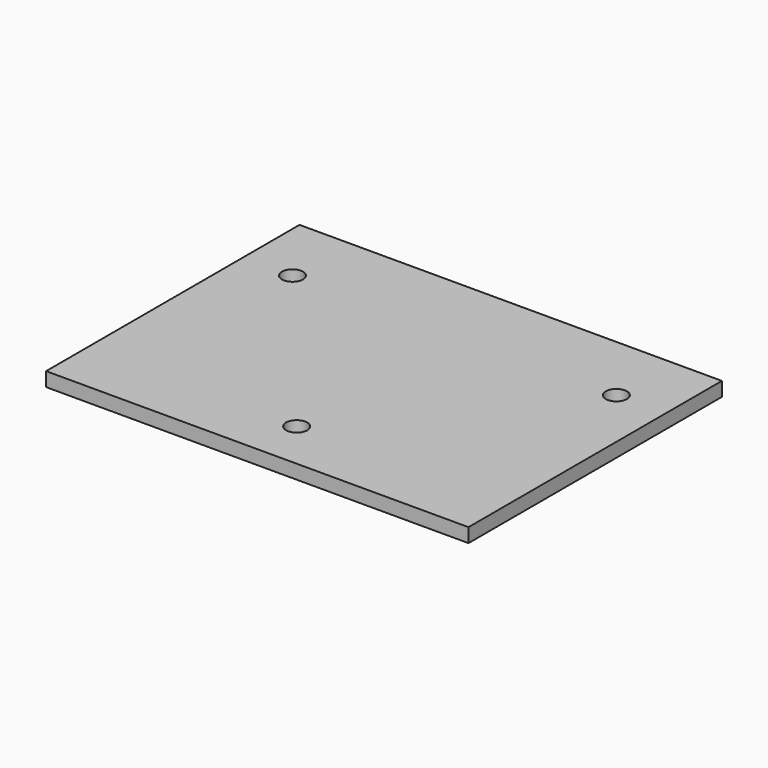
from build123d import *

# Parameters (mm, degrees)
F0_W     = 60
F0_H     = 45
F1_DEPTH = 2
F3_D     = 3


with BuildPart() as f1:
    # F0 (on Top) → F1 (new body)
    with BuildSketch(Plane.XY):
        Rectangle(F0_W, F0_H)
    extrude(amount=-F1_DEPTH)

    # F3 (through all)
    with Locations(Plane.XY):
        with Locations((-23, 12.5), (23, 12.5), (0, -15.5)):
            Hole(F3_D / 2)


solid = f1.part
